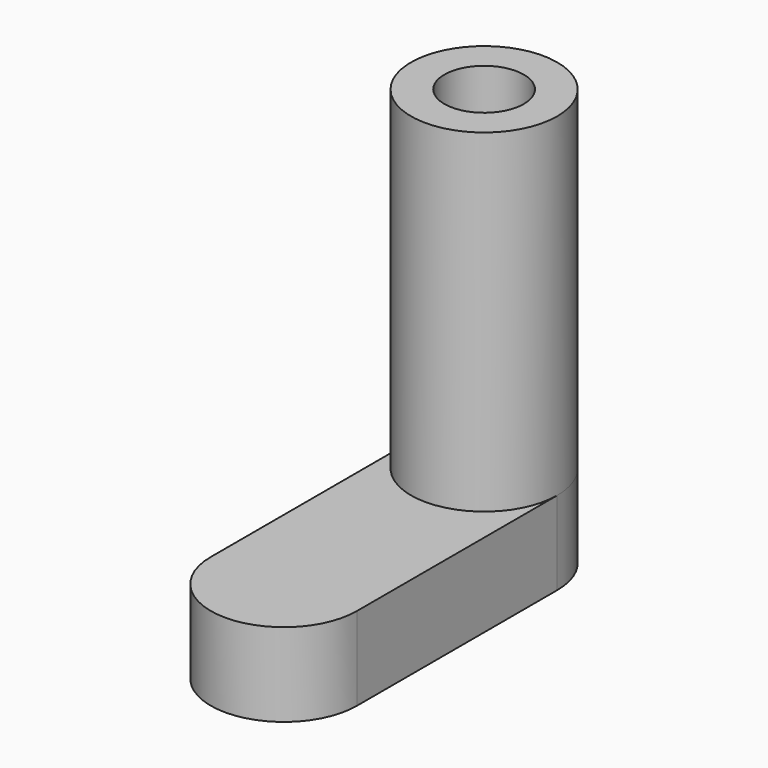
from build123d import *

# Parameters (mm, degrees)
F0_R     = 4.38125
F0_R_2   = 2.38125
F1_DEPTH = 20
F2_R     = 2.38125
F3_DEPTH = 5


with BuildPart() as f1:
    # F0 (on Top) → F1 (new body)
    with BuildSketch(Plane.XY):
        Circle(F0_R)
        Circle(F0_R_2, mode=Mode.SUBTRACT)
    extrude(amount=F1_DEPTH)

    # F2 (on face) → F3 (join)
    with BuildSketch(Plane(origin=(0, 0, 0), x_dir=(1, 0, 0), z_dir=(0, 0, -1))):
        with BuildLine():
            Line((-4.38125, 15), (-4.38125, 0))
            ThreePointArc((-4.38125, 0), (0, -4.38125), (4.38125, 0))
            Line((4.38125, 0), (4.38125, 15))
            ThreePointArc((4.38125, 15), (0, 19.38125), (-4.38125, 15))
        make_face()
        Circle(F2_R, mode=Mode.SUBTRACT)
    extrude(amount=F3_DEPTH)


solid = f1.part
